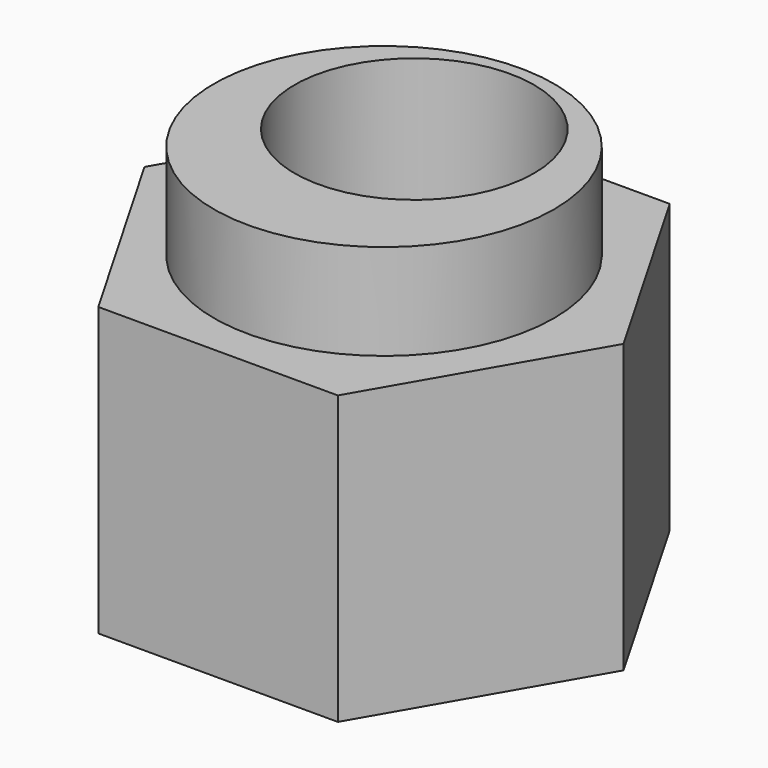
from build123d import *

# Parameters (mm, degrees)
F0_R     = 3.55
F1_DEPTH = 6
F0_R_2   = 2.5
F2_DEPTH = 8


with BuildPart() as f1:
    # F0 (on Top) → F1 (new body)
    with BuildSketch(Plane.XY):
        Polygon((2.5, 4.330127), (-2.5, 4.330127), (-5, 0), (-2.5, -4.330127), (2.5, -4.330127), (5, 0), align=None)
        Circle(F0_R, mode=Mode.SUBTRACT)
    extrude(amount=F1_DEPTH)

    # F0 (on Top) → F2 (join)
    with BuildSketch(Plane.XY):
        Circle(F0_R)
        with Locations((0, 0.79)):
            Circle(F0_R_2, mode=Mode.SUBTRACT)
    extrude(amount=F2_DEPTH)


solid = f1.part
